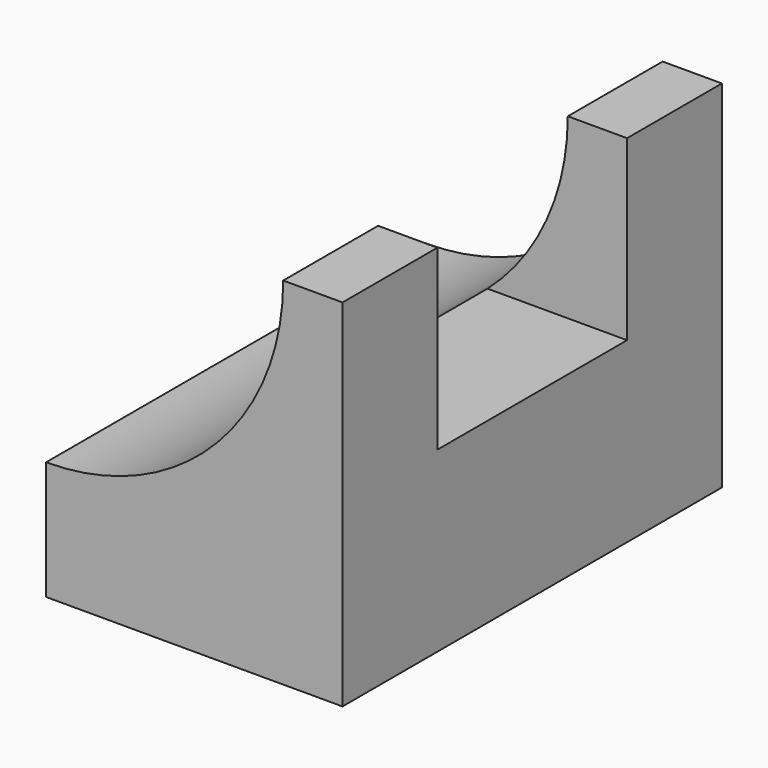
from build123d import *

# Parameters (mm, degrees)
F1_DEPTH = 203.2
F2_START = 50.8
F2_DEPTH = 101.6


with BuildPart() as f1:
    # F0 (on Front) → F1 (new body)
    with BuildSketch(Plane.XZ):
        with BuildLine():
            Line((67.202083301, 76.2), (127, 76.2))
            Line((127, 76.2), (127, 152.4))
            Line((127, 152.4), (101.6, 152.4))
            ThreePointArc((101.6, 152.4), (92.602083301, 110.597916699), (67.202083301, 76.2))
        make_face()
        with BuildLine():
            Line((0, 50.8), (0, 0))
            Line((0, 0), (127, 0))
            Line((127, 0), (127, 76.2))
            Line((127, 76.2), (67.202083301, 76.2))
            ThreePointArc((67.202083301, 76.2), (35.9210244843, 57.3619023759), (0, 50.8))
        make_face()
    extrude(amount=F1_DEPTH)

    # F0 (on Front) → F2 (cut)
    with BuildSketch(Plane.XZ.offset(F2_START)):
        with BuildLine():
            Line((67.202083301, 76.2), (127, 76.2))
            Line((127, 76.2), (127, 152.4))
            Line((127, 152.4), (101.6, 152.4))
            ThreePointArc((101.6, 152.4), (92.602083301, 110.597916699), (67.202083301, 76.2))
        make_face()
        with BuildLine():
            ThreePointArc((67.202083301, 76.2), (92.602083301, 110.597916699), (101.6, 152.4))
            Line((101.6, 152.4), (25.4, 152.4))
            Line((25.4, 152.4), (25.4, 76.2))
            Line((25.4, 76.2), (67.202083301, 76.2))
        make_face()
        with BuildLine():
            ThreePointArc((67.202083301, 76.2), (92.602083301, 110.597916699), (101.6, 152.4))
            Line((101.6, 152.4), (25.4, 152.4))
            Line((25.4, 152.4), (25.4, 76.2))
            Line((25.4, 76.2), (67.202083301, 76.2))
        make_face()
    extrude(amount=F2_DEPTH, mode=Mode.SUBTRACT)


solid = f1.part
